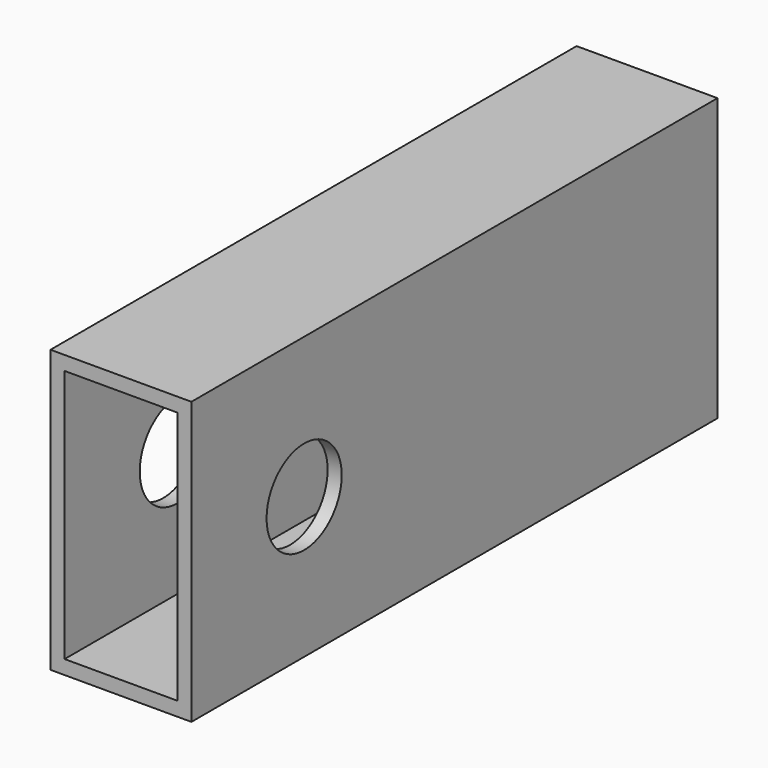
from build123d import *

# Parameters (mm, degrees)
F0_W     = 30
F0_H     = 60
F0_W_2   = 24
F0_H_2   = 54
F1_DEPTH = 70
F3_D     = 20


with BuildPart() as f1:
    # F0 (on Front) → F1 (new body, symmetric)
    with BuildSketch(Plane.XZ):
        Rectangle(F0_W, F0_H)
        Rectangle(F0_W_2, F0_H_2, mode=Mode.SUBTRACT)
    extrude(amount=F1_DEPTH, both=True)

    # F3 (through all)
    with Locations(Plane.YZ.offset(15)):
        with Locations((-40, 0)):
            Hole(F3_D / 2)


solid = f1.part
